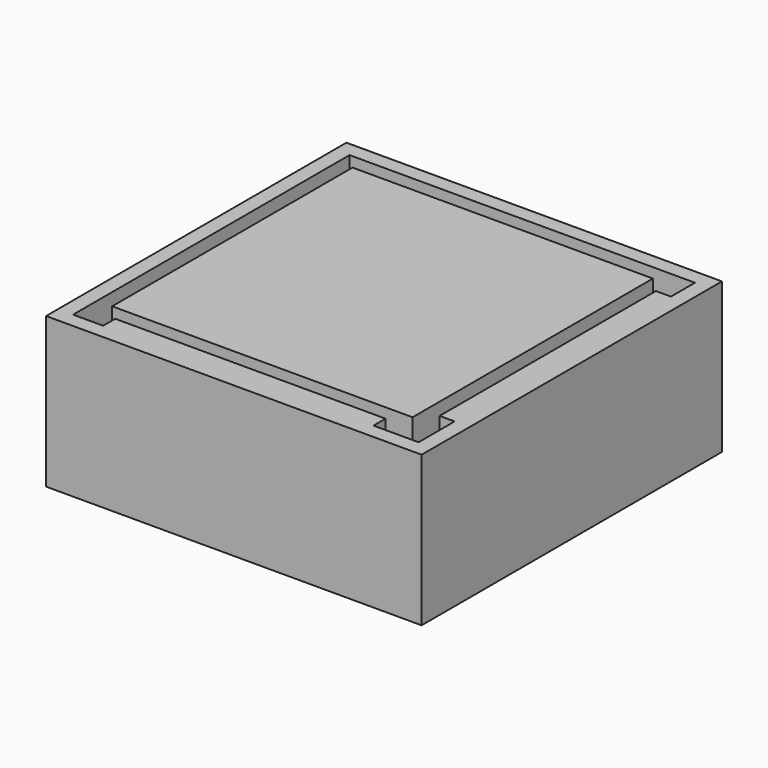
from build123d import *

# Parameters (mm, degrees)
F2_DEPTH = 50
F1_W     = 90
F1_H     = 5
F1_W_2   = 5
F1_H_2   = 90
F3_DEPTH = 50


with BuildPart() as f2:
    # F0 (on Top) → F2 (new body)
    with BuildSketch(Plane.XY):
        Polygon((204.563049, -64.100122), (104.563049, 35.899878), (104.563049, -64.100122), align=None)
        Polygon((204.563049, 35.899878), (104.563049, 35.899878), (204.563049, -64.100122), align=None)
    extrude(amount=F2_DEPTH)


with BuildPart() as f3:
    # F1 (on Top) → F3 (new body)
    with BuildSketch(Plane.XY):
        Polygon((94.563049, -79.100122), (99.563049, -79.100122), (219.563049, -79.100122), (219.563049, 40.899878), (219.563049, 45.863766), (99.563049, 45.863766), (94.563049, 45.863766), (94.563049, 40.899878), align=None)
        Polygon((99.563049, -74.100122), (99.563049, 40.899878), (214.563049, 40.899878), (214.563049, 30.899878), (214.563049, -59.100122), (214.563049, -74.100122), (199.563049, -74.100122), (109.563049, -74.100122), align=None, mode=Mode.SUBTRACT)
        with Locations((154.563049, -71.600122)):
            Rectangle(F1_W, F1_H)
        with Locations((212.063049, -14.100122)):
            Rectangle(F1_W_2, F1_H_2)
    extrude(amount=F3_DEPTH)


solid = Compound([f2.part, f3.part])
